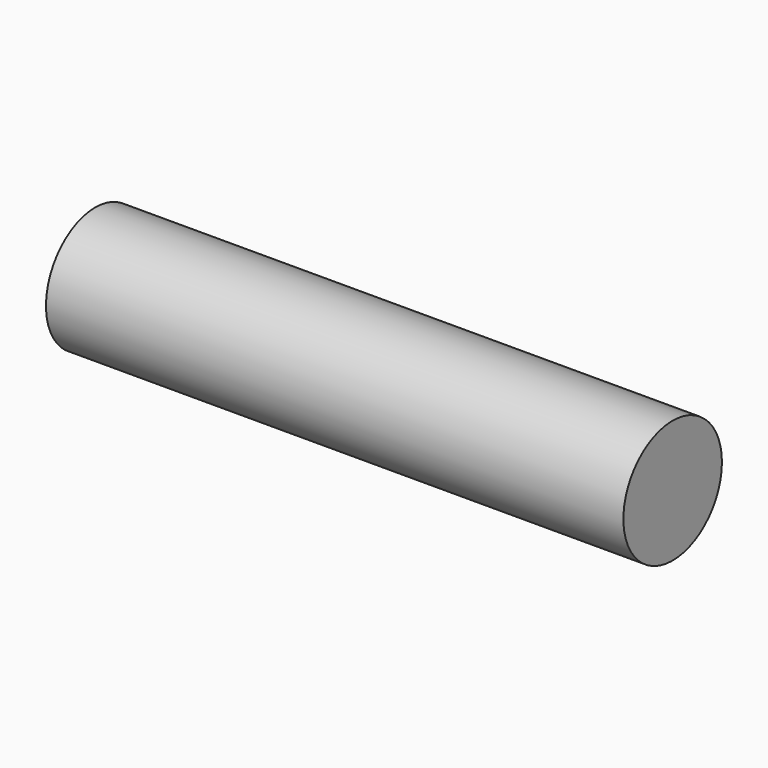
from build123d import *

# Parameters (mm, degrees)
SKETCH_W = 30
SKETCH_H = 3.2


with BuildPart() as part:
    # Sketch → Revolution (revolve)
    with BuildSketch(Plane.XY):
        with Locations((15, 1.6)):
            Rectangle(SKETCH_W, SKETCH_H)
    revolve(axis=Axis((0, 0, 0), (1, 0, 0)))


solid = part.part
